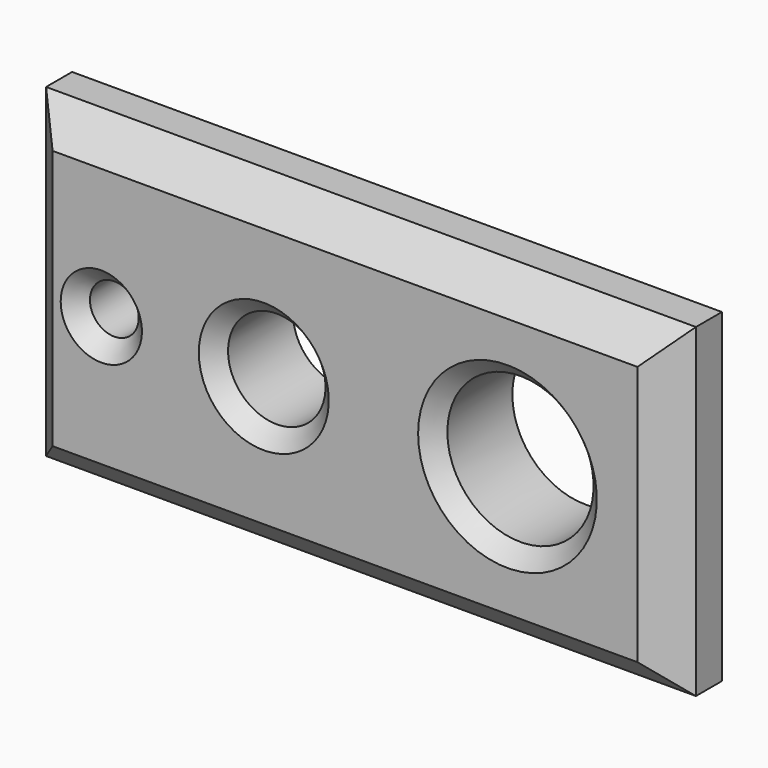
from build123d import *

# Parameters (mm, degrees)
F1_DEPTH = 30
F2_SIZE  = 10
F3_SIZE  = 5
F4_SIZE  = 10


with BuildPart() as f1:
    # F0 (on Front) → F1 (new body)
    with BuildSketch(Plane.XZ):
        Polygon((100, 50), (-100, 50), (-100, 0), (-100, -50), (100, -50), align=None)
        with BuildLine():
            ThreePointArc((-67.5, 0), (-75, -7.5), (-82.5, 0))
            ThreePointArc((-82.5, 0), (-75, 7.5), (-67.5, 0))
        make_face(mode=Mode.SUBTRACT)
        with BuildLine():
            ThreePointArc((-10, 0), (-25, -15), (-40, 0))
            ThreePointArc((-40, 0), (-25, 15), (-10, 0))
        make_face(mode=Mode.SUBTRACT)
        with BuildLine():
            ThreePointArc((72.5, 0), (50, -22.5), (27.5, 0))
            ThreePointArc((27.5, 0), (50, 22.5), (72.5, 0))
        make_face(mode=Mode.SUBTRACT)
    extrude(amount=F1_DEPTH)

    # F2
    f2_edges = [f1.edges().sort_by_distance(p)[0] for p in [
        (-100, -30, 0),
        (0, -30, -50),
        (100, -30, 0),
        (0, -30, 50),
    ]]
    chamfer(f2_edges, length=F2_SIZE)

    # F3
    f3_edges = [f1.edges().sort_by_distance(p)[0] for p in [
        (-67.5, -30, 0),
        (-10, -30, 0),
        (27.5, -30, 0),
    ]]
    chamfer(f3_edges, length=F3_SIZE)

    # F4
    f4_edges = [f1.edges().sort_by_distance(p)[0] for p in [
        (0, 0, -50),
        (-100, 0, 0),
        (0, 0, 50),
        (100, 0, 0),
    ]]
    chamfer(f4_edges, length=F4_SIZE)


solid = f1.part
